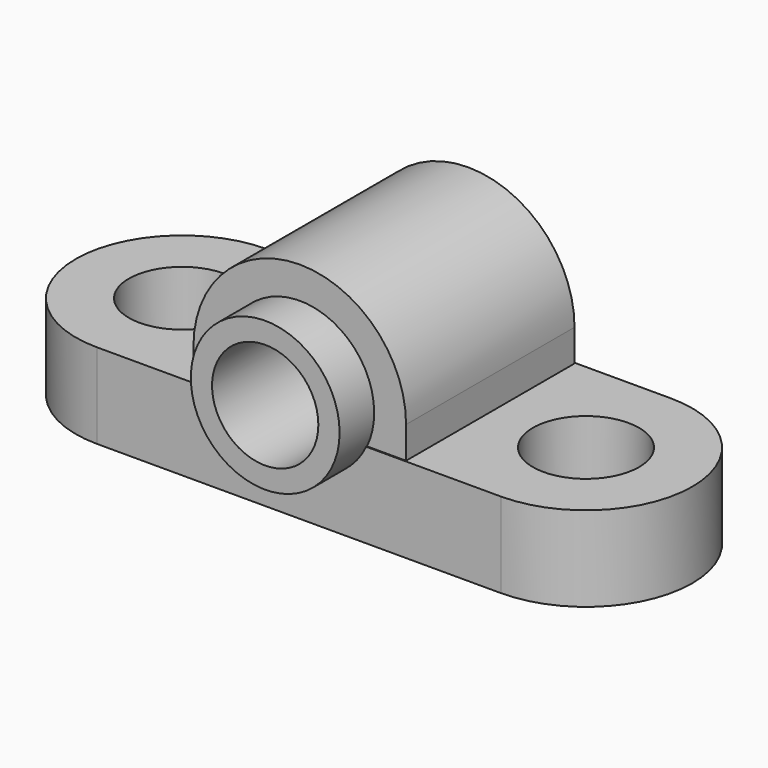
from build123d import *

# Parameters (mm, degrees)
F0_R          = 5
F1_DEPTH      = 8
F3_DEPTH      = 9.906
F4_R          = 7
F5_DEPTH      = 10.001
F5_DEPTH_BACK = 10.001
F6_R          = 7
F6_R_2        = 5
F7_DEPTH      = 13.97
F7_DEPTH_BACK = 10.0076


with BuildPart() as f1:
    # F0 (on Top) → F1 (new body)
    with BuildSketch(Plane.XY):
        with BuildLine():
            Line((-19, -10), (19, -10))
            ThreePointArc((19, -10), (29, 0), (19, 10))
            Line((19, 10), (-19, 10))
            ThreePointArc((-19, 10), (-29, 0), (-19, -10))
        make_face()
        with Locations((-19, 0)):
            Circle(F0_R, mode=Mode.SUBTRACT)
        with Locations((19, 0)):
            Circle(F0_R, mode=Mode.SUBTRACT)
    extrude(amount=F1_DEPTH)

    # F2 (on Front) → F3 (join, symmetric)
    with BuildSketch(Plane.XZ):
        with BuildLine():
            Line((10, 0), (10, 11))
            ThreePointArc((10, 11), (0, 21), (-10, 11))
            Line((-10, 11), (-10, 0))
            Line((-10, 0), (10, 0))
        make_face()
    extrude(amount=F3_DEPTH, both=True)

    # F4 (on Front) → F5 (cut, two sides)
    with BuildSketch(Plane.XZ) as f5_sk:
        with Locations((0, 11)):
            Circle(F4_R)
    extrude(amount=F5_DEPTH, mode=Mode.SUBTRACT)
    extrude(f5_sk.sketch, amount=-F5_DEPTH_BACK, mode=Mode.SUBTRACT)

    # F6 (on Front) → F7 (join, two sides)
    with BuildSketch(Plane.XZ) as f7_sk:
        with Locations((0, 11)):
            Circle(F6_R)
        with Locations((0, 11)):
            Circle(F6_R_2, mode=Mode.SUBTRACT)
    extrude(amount=F7_DEPTH)
    extrude(f7_sk.sketch, amount=-F7_DEPTH_BACK)


solid = f1.part
